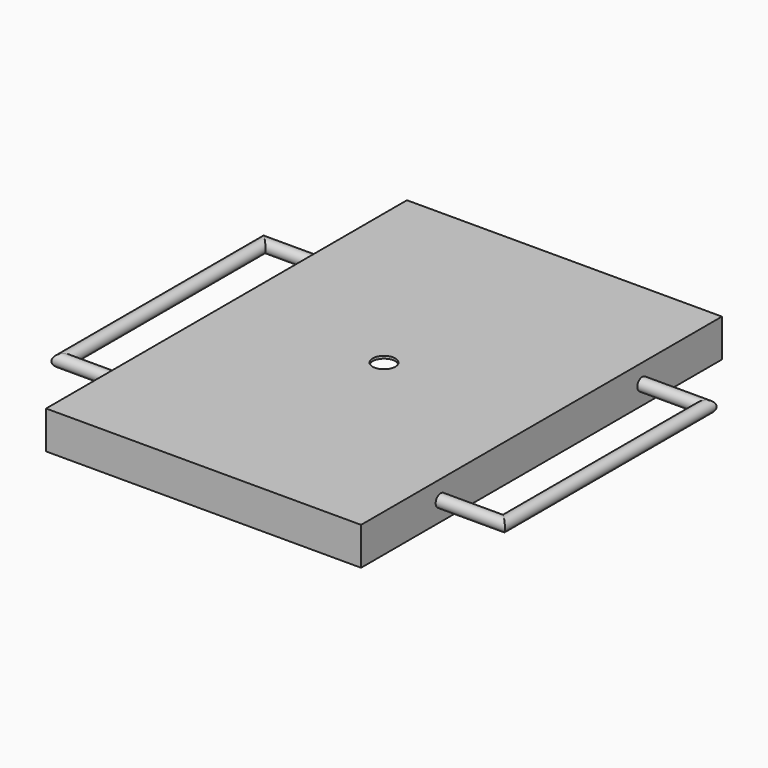
from build123d import *

# Parameters (mm, degrees)
F1_DEPTH  = 125
F4_DEPTH  = 2
F10_R     = 9
F11_DEPTH = 25


with BuildPart() as f1:
    # F0 (on Right) → F1 (new body)
    with BuildSketch(Plane.YZ):
        Polygon((179, 0), (0, 0), (0, -2), (177, -2), (177, -30), (179, -30), align=None)
        Polygon((0, -2), (0, 0), (-179, 0), (-179, -30), (-177, -30), (-177, -2), align=None)
    extrude(amount=F1_DEPTH)

    # F3 (on offset) → F4 (join)
    with BuildSketch(Plane.YZ.offset(125)):
        Polygon((179, 0), (0, 0), (-179, 0), (-179, -30), (179, -30), align=None)
    extrude(amount=-F4_DEPTH)

    # F8: sweep along a path in F7
    with BuildLine(Plane.XY.offset(-15)) as f8_path:
        Line((125, 100), (175, 100))
        Line((175, 100), (175, -100))
        Line((175, -100), (125, -100))
    # F5 (on offset) → F8 (sweep)
    with BuildSketch(Plane.YZ.offset(125)):
        with BuildLine():
            ThreePointArc((95, -15), (100, -20), (105, -15))
            ThreePointArc((105, -15), (100, -10), (95, -15))
        make_face()
    sweep(path=f8_path.line, transition=Transition.RIGHT)

    # F9: F1 across face


with BuildPart() as f1_1:
    add(f1.part)
    add(f1.part.mirror(Plane(origin=(0, 0, -3.0289855072), x_dir=(0, 1, 0), z_dir=(-1, 0, 0))))

    # F10 (on Top) → F11 (cut)
    with BuildSketch(Plane.XY):
        Circle(F10_R)
    extrude(amount=-F11_DEPTH, mode=Mode.SUBTRACT)


solid = f1_1.part
